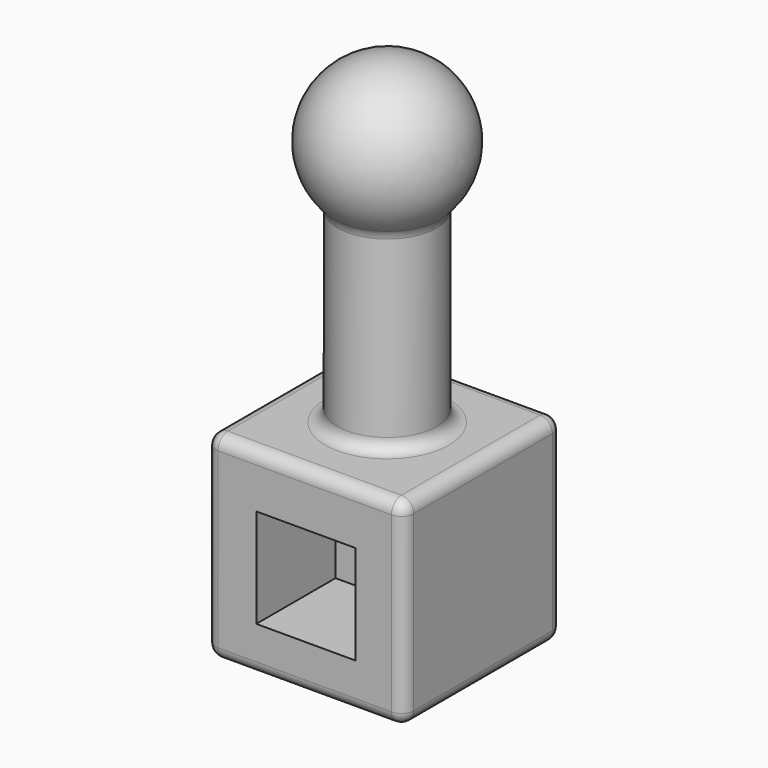
from build123d import *

# Parameters (mm, degrees)
F0_W     = 101.6
F0_H     = 101.6
F1_DEPTH = 101.6
F2_R     = 25.4
F3_DEPTH = 25.4
F4_DEPTH = 101.6
F7_W     = 50.8
F7_H     = 50.8
F8_DEPTH = 50.8
F9_R     = 6.35


with BuildPart() as f1:
    # F0 (on Top) → F1 (new body)
    with BuildSketch(Plane.XY):
        with Locations((-0.531297791, -1.3627031267)):
            Rectangle(F0_W, F0_H)
    extrude(amount=F1_DEPTH)

    # F2 (on face) → F3 (join)
    with BuildSketch(Plane.XY.offset(101.6)):
        Circle(F2_R)
    extrude(amount=F3_DEPTH)

    # F4 (add): a face of the model
    f4_faces = [f1.faces().sort_by_distance(p)[0] for p in [
        (0, 0, 127),
    ]]
    extrude(f4_faces, amount=F4_DEPTH)

    # F5 (on face) → F6 (revolve)
    with BuildSketch(Plane.XY.offset(228.6)):
        with BuildLine():
            Line((0, -25.4), (0, -38.1))
            ThreePointArc((0, -38.1), (38.1, 0), (0, 38.1))
            Line((0, 38.1), (0, 25.4))
            ThreePointArc((0, 25.4), (17.9605122421, 17.9605122421), (25.4, 0))
            ThreePointArc((25.4, 0), (17.9605122421, -17.9605122421), (0, -25.4))
        make_face()
        with BuildLine():
            Line((0, 25.4), (0, -25.4))
            ThreePointArc((0, -25.4), (17.9605122421, -17.9605122421), (25.4, 0))
            ThreePointArc((25.4, 0), (17.9605122421, 17.9605122421), (0, 25.4))
        make_face()
    revolve(axis=Axis((0, 0, 228.6), (0, -1, 0)))

    # F7 (on face) → F8 (cut)
    with BuildSketch(Plane.XZ.offset(52.1627031267)):
        with Locations((0, 48.9108748734)):
            Rectangle(F7_W, F7_H)
    extrude(amount=-F8_DEPTH, mode=Mode.SUBTRACT)

    # F9
    f9_edges = [f1.edges().sort_by_distance(p)[0] for p in [
        (50.268702, -1.362703, 101.6),
        (50.268702, -1.362703, 0),
        (50.268702, -52.162703, 50.8),
        (50.268702, 49.437297, 50.8),
        (-0.531298, -52.162703, 101.6),
        (-51.331298, -52.162703, 50.8),
        (-0.531298, -52.162703, 0),
        (-51.331298, -1.362703, 0),
        (-0.531298, 49.437297, 0),
        (-0.531298, 49.437297, 101.6),
        (-51.331298, -1.362703, 101.6),
        (-51.331298, 49.437297, 50.8),
        (-25.4, 0, 200.201937),
        (-25.4, 0, 101.6),
    ]]
    fillet(f9_edges, radius=F9_R)


solid = f1.part
